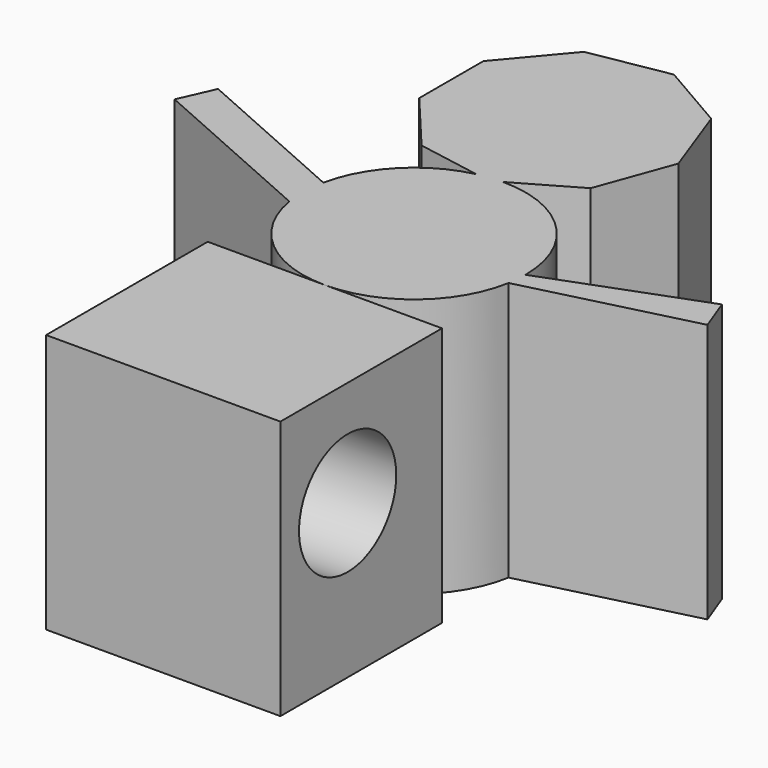
from build123d import *

# Parameters (mm, degrees)
F1_DEPTH = 38.1
F2_R     = 8.9283509737
F3_DEPTH = 76.2


with BuildPart() as f1:
    # F0 (on Top) → F1 (new body)
    with BuildSketch(Plane.XY):
        with BuildLine():
            ThreePointArc((-19.8392088322, 31.0042282186), (-14.2652326938, 21.2094117356), (-3.6831426706, 17.3329428959))
            ThreePointArc((-3.6831426706, 17.3329428959), (6.8558147514, 21.1730402179), (12.4538692011, 30.8930071604))
            ThreePointArc((12.4538692011, 30.8930071604), (12.6367274551, 32.2908793662), (12.6987227546, 33.6992970697))
            ThreePointArc((12.6987227546, 33.6992970697), (12.6987282674, 33.7070563908), (12.698730105, 33.7148157137))
            ThreePointArc((12.698730105, 33.7148157137), (7.8926833262, 45.3064509968), (-3.705500355, 50.096673275))
            Line((-3.705500355, 50.096673275), (-5.0983826818, 49.2939955798))
            Line((-5.0983826818, 49.2939955798), (-7.320754889, 49.6877157221))
            ThreePointArc((-7.320754889, 49.6877157221), (-15.3607260497, 45.2039324958), (-19.7131103672, 37.0920770336))
            ThreePointArc((-19.7131103672, 37.0920770336), (-20.0615024695, 34.0540629729), (-19.8392088322, 31.0042282186))
        make_face()
        with BuildLine():
            Line((-45.9615329933, 42.5867497672), (-19.8392088322, 31.0042282186))
            ThreePointArc((-19.8392088322, 31.0042282186), (-20.0615024695, 34.0540629729), (-19.7131103672, 37.0920770336))
            Line((-19.7131103672, 37.0920770336), (-43.6849854887, 47.7210991085))
            Line((-43.6849854887, 47.7210991085), (-45.9615329933, 42.5867497672))
        make_face()
        with BuildLine():
            ThreePointArc((12.6987227546, 33.6992970697), (12.6367274551, 32.2908793662), (12.4538692011, 30.8930071604))
            Line((12.4538692011, 30.8930071604), (36.7716592372, 37.0266938141))
            Line((36.7716592372, 37.0266938141), (34.897346632, 42.0244557041))
            Line((34.897346632, 42.0244557041), (12.6987227546, 33.6992970697))
        make_face()
        with BuildLine():
            Line((-16.6866425288, 51.3469961082), (-7.320754889, 49.6877157221))
            ThreePointArc((-7.320754889, 49.6877157221), (-5.524516205, 49.9928715154), (-3.705500355, 50.096673275))
            Line((-3.705500355, 50.096673275), (5.0983826818, 55.1700957808))
            Line((5.0983826818, 55.1700957808), (9.1324737239, 66.2258041215))
            Line((9.1324737239, 66.2258041215), (5.116294412, 77.2880317989))
            Line((5.116294412, 77.2880317989), (-5.070940319, 83.1806395397))
            Line((-5.070940319, 83.1806395397), (-16.66251012, 81.146410693))
            Line((-16.66251012, 81.146410693), (-24.2345906551, 72.137183544))
            Line((-24.2345906551, 72.137183544), (-24.2441212877, 60.3684756023))
            Line((-24.2441212877, 60.3684756023), (-16.6866425288, 51.3469961082))
        make_face()
        with BuildLine():
            ThreePointArc((-3.705500355, 50.096673275), (-5.524516205, 49.9928715154), (-7.320754889, 49.6877157221))
            Line((-7.320754889, 49.6877157221), (-5.0983826818, 49.2939955798))
            Line((-5.0983826818, 49.2939955798), (-3.705500355, 50.096673275))
        make_face()
    extrude(amount=F1_DEPTH)


with BuildPart() as f1b:
    # F0 (on Top) → F1, piece 2 (new body)
    with BuildSketch(Plane.XY):
        Polygon((-3.6831426706, 17.3329428959), (-20.8959778534, 17.3329428959), (-20.8959778534, -12.3443568868), (13.5296924277, -12.3443568868), (13.5296924277, 17.3329428959), align=None)
    extrude(amount=F1_DEPTH)

    # F2 (on face) → F3 (cut)
    with BuildSketch(Plane.YZ.offset(13.5296924277)):
        with Locations((0, 22.5505493581)):
            Circle(F2_R)
    extrude(amount=-F3_DEPTH, mode=Mode.SUBTRACT)


solid = Compound([f1.part, f1b.part])
